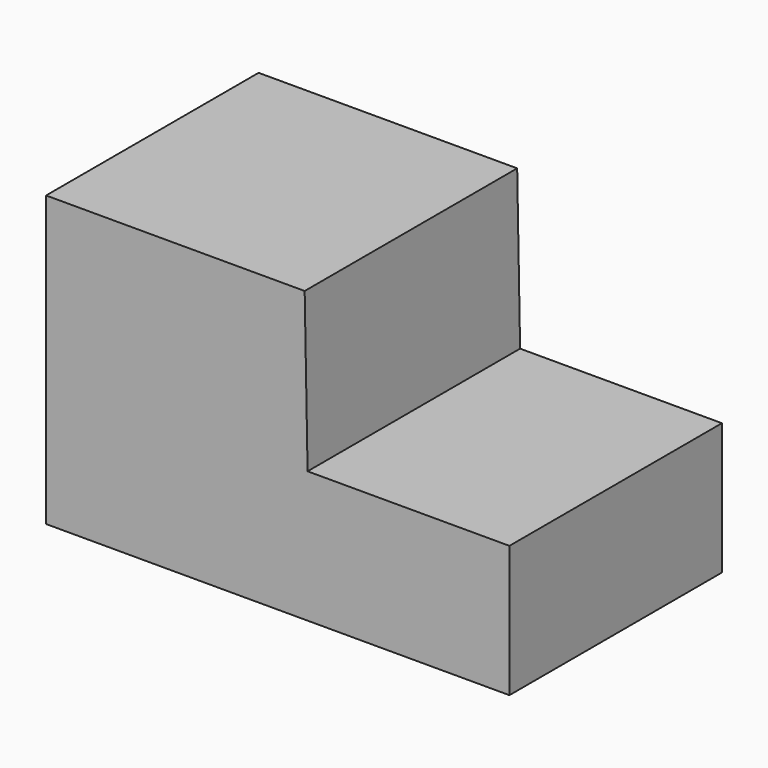
from build123d import *

# Parameters (mm, degrees)
F1_DEPTH  = 56.388
F1_FACE_W = 56.388
F1_FACE_H = 27.910466
F2_DEPTH  = 11.43


with BuildPart() as f1:
    # F0 (on Front) → F1 (new body)
    with BuildSketch(Plane.XZ):
        Polygon((49.463544, -24.964361), (-4.806804, -24.964361), (-5.427036, 8.528198), (-60.317617, 8.528198), (-60.317617, -52.874826), (49.463544, -52.874826), align=None)
    extrude(amount=F1_DEPTH)

    # F1_face (on face) → F2 (cut)
    with BuildSketch(Plane(origin=(49.463544, -28.194, -38.919593), x_dir=(0, 1, 0), z_dir=(1, 0, 0))):
        Rectangle(F1_FACE_W, F1_FACE_H)
    extrude(amount=-F2_DEPTH, mode=Mode.SUBTRACT)


solid = f1.part
